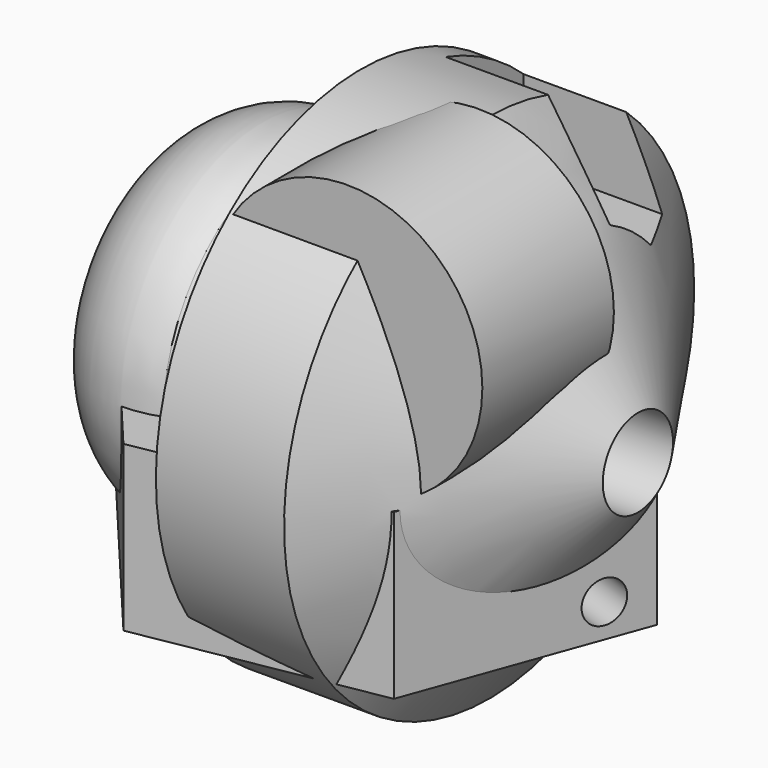
from build123d import *

# Parameters (mm, degrees)
F2_DEPTH  = 25.4
F3_R      = 8.143310864
F4_DEPTH  = 25.4
F7_R      = 6.7810250719
F8_DEPTH  = 76.2
F9_R      = 3.2182175961
F10_DEPTH = 68.326
F11_W     = 15.0923235342
F11_H     = 22.7762702852
F12_DEPTH = 25.4
F13_R     = 20.8563565083
F14_DEPTH = 25.4


with BuildPart() as f2:
    # F0 (on Top) → F2 (new body)
    with BuildSketch(Plane.XY):
        Polygon((36.6055454756, 6.4661289451), (12.7029408072, 34.9343967738), (-23.9026046684, 28.4682678287), (-36.6055454756, -6.4661289451), (-12.7029408072, -34.9343967738), (23.9026046684, -28.4682678287), align=None)
    extrude(amount=-F2_DEPTH)

    # F3 (on line) → F4 (cut)
    with BuildSketch(Plane(origin=(-4.199873948, 23.775999226, 13.9395968422), x_dir=(-0.9885878542, -0.1299569007, -0.0761922469), z_dir=(-0.1506454597, 0.8528223411, 0.5))):
        with Locations((1.0608994635, -15.9425735474)):
            Circle(F3_R)
    extrude(amount=-F4_DEPTH, mode=Mode.SUBTRACT)

    # F5 (on Front) → F6 (revolve)
    with BuildSketch(Plane.XZ):
        with BuildLine():
            Line((-6.9683259353, 20.4054266214), (-13.349192217, 26.417594403))
            ThreePointArc((-13.349192217, 26.417594403), (-32.286852793, 19.7760065738), (-28.8728754967, 0))
            Line((-28.8728754967, 0), (43.5695797205, 0))
            Line((43.5695797205, 0), (15.8389825374, 39.5940095186))
            Line((15.8389825374, 39.5940095186), (-3.9613735862, 39.5940095186))
            Line((-3.9613735862, 39.5940095186), (-6.9683259353, 20.4054266214))
        make_face()
    revolve(axis=Axis((7.3483521119, 0, 0), (-1, 0, 0)))

    # F7 (on Right) → F8 (cut, symmetric)
    with BuildSketch(Plane.YZ):
        Circle(F7_R)
    extrude(amount=F8_DEPTH, both=True, mode=Mode.SUBTRACT)

    # F9 (on face) → F10 (cut)
    with BuildSketch(Plane(origin=(-30.254075072, 11.0010694418, 0), x_dir=(-0.3417317485, -0.9397975378, 0), z_dir=(-0.9397975378, 0.3417317485, 0))):
        with Locations((-11.1456587911, -20.2631615102)):
            Circle(F9_R)
    extrude(amount=-F10_DEPTH, mode=Mode.SUBTRACT)

    # F11 (on Right) → F12 (cut)
    with BuildSketch(Plane.YZ):
        with Locations((18.9267494716, 28.7478743121)):
            Rectangle(F11_W, F11_H)
    extrude(amount=F12_DEPTH, mode=Mode.SUBTRACT)


with BuildPart() as f14:
    # F13 (on Front) → F14 (new body)
    with BuildSketch(Plane.XZ):
        with Locations((14.2583092675, 19.2532576621)):
            Circle(F13_R)
    extrude(amount=F14_DEPTH)


solid = Compound([f2.part, f14.part])
